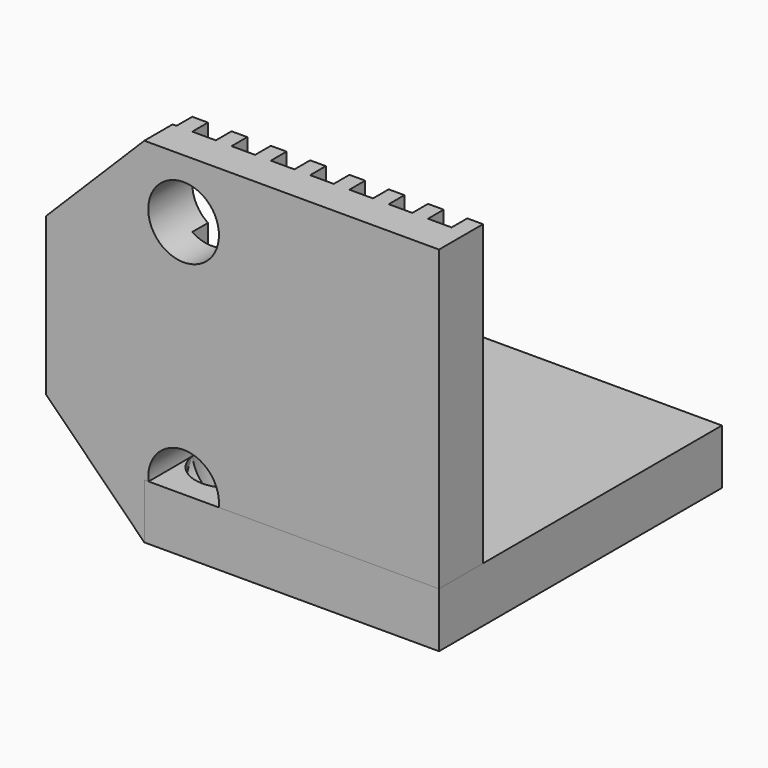
from build123d import *

# Parameters (mm, degrees)
PAD_DEPTH       = 18
SKETCH001_R     = 1.8
POCKET_DEPTH    = 5
CHAMFER_SIZE    = 5
SKETCH002_W     = 20
SKETCH002_H     = 18
SKETCH002_R     = 1.8
PAD001_DEPTH    = 2.8
CHAMFER001_SIZE = 5


with BuildPart() as chamfer_body:
    # Sketch → Pad (new body)
    with BuildSketch(Plane.XY):
        Polygon((-20, 1.8), (-18.8, 1.8), (-18.8, 2.8), (-18, 2.8), (-18, 1.8), (-16.8, 1.8), (-16.8, 2.8), (-16, 2.8), (-16, 1.8), (-14.8, 1.8), (-14.8, 2.8), (-14, 2.8), (-14, 1.8), (-12.8, 1.8), (-12.8, 2.8), (-12, 2.8), (-12, 1.8), (-10.8, 1.8), (-10.8, 2.8), (-10, 2.8), (-10, 1.8), (-8.8, 1.8), (-8.8, 2.8), (-8, 2.8), (-8, 1.8), (-6.8, 1.8), (-6.8, 2.8), (-6, 2.8), (-6, 1.8), (-4.8, 1.8), (-4.8, 2.8), (-4, 2.8), (-4, 1.8), (-2.8, 1.8), (-2.8, 2.8), (-2, 2.8), (-2, 1.8), (-0.8, 1.8), (-0.8, 2.8), (0, 2.8), (0, 0), (-20, 0), align=None)
    extrude(amount=PAD_DEPTH)

    # Sketch001 → Pocket (cut)
    with BuildSketch(Plane.XZ):
        with Locations((-13, 15)):
            Circle(SKETCH001_R)
        with Locations((-13, 3)):
            Circle(SKETCH001_R)
    extrude(amount=-POCKET_DEPTH, mode=Mode.SUBTRACT)

    # Chamfer
    chamfer_edges = [chamfer_body.edges().sort_by_distance(p)[0] for p in [
        (-20, 0.9, 18),
        (-20, 0.9, 0),
    ]]
    chamfer(chamfer_edges, length=CHAMFER_SIZE)


with BuildPart() as chamfer001:
    # Sketch002 → Pad001 (new body)
    with BuildSketch(Plane.XY):
        with Locations((-10, 9)):
            Rectangle(SKETCH002_W, SKETCH002_H)
        with Locations((-13, 15)):
            Circle(SKETCH002_R, mode=Mode.SUBTRACT)
        with Locations((-13, 3)):
            Circle(SKETCH002_R, mode=Mode.SUBTRACT)
    extrude(amount=PAD001_DEPTH)

    # Chamfer001
    chamfer001_edges = [chamfer001.edges().sort_by_distance(p)[0] for p in [
        (-20, 18, 1.4),
        (-20, 0, 1.4),
    ]]
    chamfer(chamfer001_edges, length=CHAMFER001_SIZE)


solid = Compound([chamfer_body.part, chamfer001.part])
